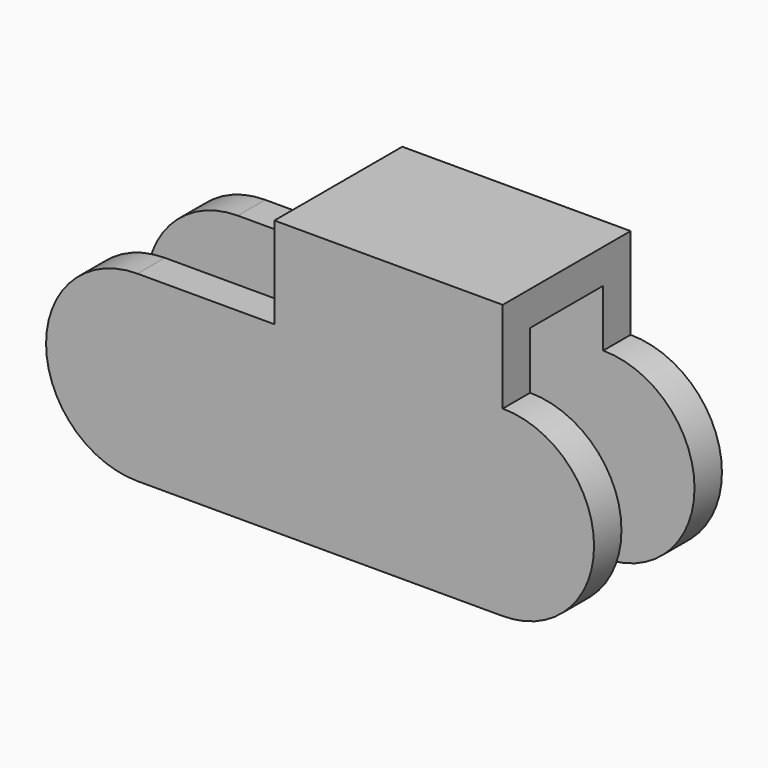
from build123d import *

# Parameters (mm, degrees)
F0_R     = 3
F1_DEPTH = 14
F2_T     = -3


with BuildPart() as f1:
    # F0 (on Front) → F1 (new body)
    with BuildSketch(Plane.XZ):
        with BuildLine():
            ThreePointArc((-16, 8), (-24, 0), (-16, -8))
            Line((-16, -8), (16, -8))
            ThreePointArc((16, -8), (24, 0), (16, 8))
            Line((16, 8), (16, 16))
            Line((16, 16), (-4, 16))
            Line((-4, 16), (-4, 8))
            Line((-4, 8), (-16, 8))
        make_face()
        with Locations((-16, 0)):
            Circle(F0_R, mode=Mode.SUBTRACT)
        with Locations((16, 0)):
            Circle(F0_R, mode=Mode.SUBTRACT)
        with Locations((-16, 0)):
            Circle(F0_R)
        with Locations((16, 0)):
            Circle(F0_R)
    extrude(amount=-F1_DEPTH)

    # F2
    f2_openings = [f1.faces().sort_by_distance(p)[0] for p in [
        (-10, 7, 8),
        (-4, 7, 12),
        (24, 7, 0),
        (-24, 7, 0),
        (0, 7, -8),
        (16, 7, 12),
    ]]
    offset(amount=F2_T, openings=f2_openings)


solid = f1.part
